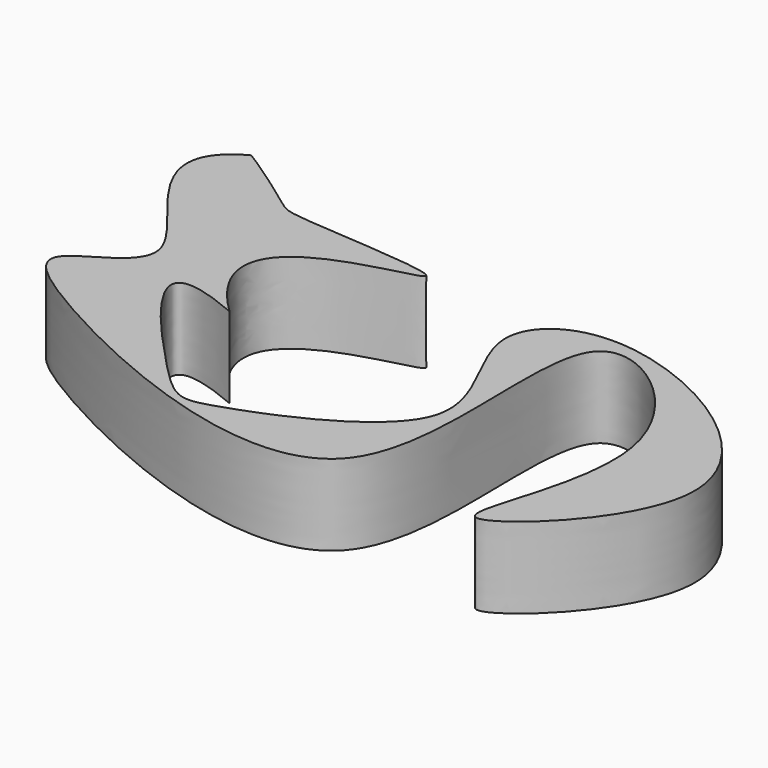
from build123d import *

# Parameters (mm, degrees)
F1_DEPTH = 25
F2_DEPTH = 25


with BuildPart() as f1:
    # F0 (on Top) → F1 (new body)
    with BuildSketch(Plane.XY):
        with BuildLine():
            add(Edge.make_bspline(
                [(-16.2660055382, -0.0583706151), (-54.396101265, 16.2247619578), (-1.1617582692, -42.5315013701), (4.3925072217, -44.775085218), (77.0469541932, -15.9608677056), (32.9901248944, 30.7457847297), (68.1837648581, 57.9642197465), (162.4937586848, 4.1733501008), (75.5892011835, -72.8797484564), (124.226487695, 9.6978948707), (43.6748019987, 70.9511168926), (86.126555151, -87.0198016473), (-51.4239678216, -23.7281533693), (-75.4922889181, -1.9467453465), (-27.0039461905, 11.2028257186), (-89.7363376687, 52.4796292523), (-63.2097107719, 66.793066398)],
                knots=[0, 0, 0, 0, 0.0549032817, 0.109683425, 0.1855265936, 0.2528599663, 0.3072081634, 0.3993957746, 0.4755332066, 0.5510962021, 0.6240513844, 0.7183125348, 0.8252441171, 0.873775348, 0.9239543915, 1, 1, 1, 1], degree=3))
            add(Edge.make_bspline(
                [(-63.2097107719, 66.793066398), (-62.3079225844, 66.7430788288), (-39.8706932753, 51.250965623), (-38.248401032, 48.3137450781), (51.7134109491, 44.96988329), (-52.1598325008, 34.5731138125), (-16.2660055382, -0.0583706151)],
                knots=[0, 0, 0, 0, 0.2239467562, 0.3826044064, 0.6763222433, 1, 1, 1, 1], degree=3))
        make_face()
    extrude(amount=F1_DEPTH)

    # F0 (on Top) → F2 (join)
    with BuildSketch(Plane.XY):
        with BuildLine():
            add(Edge.make_bspline(
                [(-16.2660055382, -0.0583706151), (-54.396101265, 16.2247619578), (-1.1617582692, -42.5315013701), (4.3925072217, -44.775085218), (77.0469541932, -15.9608677056), (32.9901248944, 30.7457847297), (68.1837648581, 57.9642197465), (162.4937586848, 4.1733501008), (75.5892011835, -72.8797484564), (124.226487695, 9.6978948707), (43.6748019987, 70.9511168926), (86.126555151, -87.0198016473), (-51.4239678216, -23.7281533693), (-75.4922889181, -1.9467453465), (-27.0039461905, 11.2028257186), (-89.7363376687, 52.4796292523), (-63.2097107719, 66.793066398)],
                knots=[0, 0, 0, 0, 0.0549032817, 0.109683425, 0.1855265936, 0.2528599663, 0.3072081634, 0.3993957746, 0.4755332066, 0.5510962021, 0.6240513844, 0.7183125348, 0.8252441171, 0.873775348, 0.9239543915, 1, 1, 1, 1], degree=3))
            add(Edge.make_bspline(
                [(-63.2097107719, 66.793066398), (-62.3079225844, 66.7430788288), (-39.8706932753, 51.250965623), (-38.248401032, 48.3137450781), (51.7134109491, 44.96988329), (-52.1598325008, 34.5731138125), (-16.2660055382, -0.0583706151)],
                knots=[0, 0, 0, 0, 0.2239467562, 0.3826044064, 0.6763222433, 1, 1, 1, 1], degree=3))
        make_face()
    extrude(amount=F2_DEPTH)


solid = f1.part
